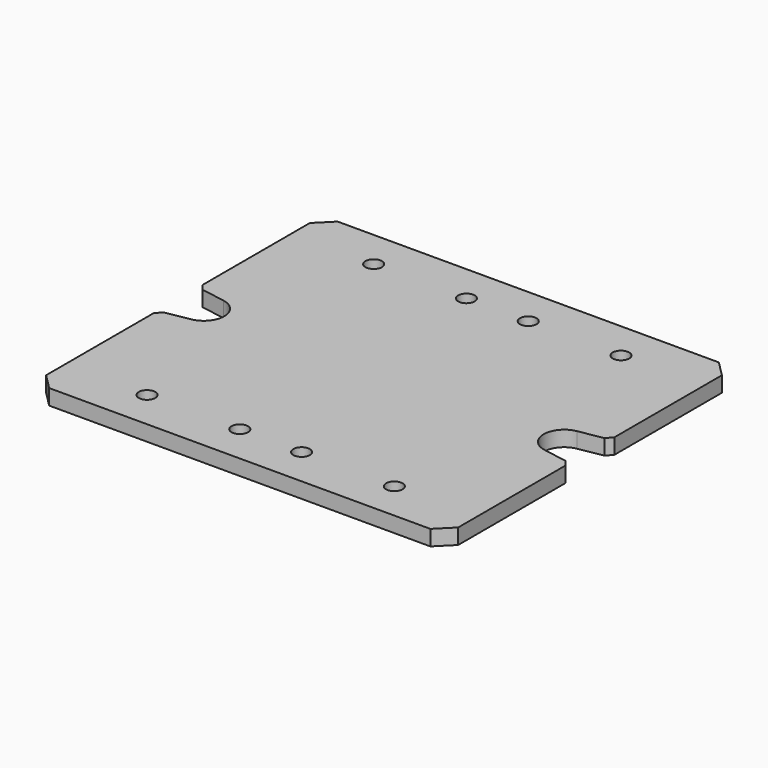
from build123d import *

# Parameters (mm, degrees)
SKETCH241_W     = 80
SKETCH241_H     = 70
PAD125_DEPTH    = 3
SKETCH242_R     = 1.6
POCKET081_DEPTH = 5
CHAMFER085_SIZE = 3
CHAMFER086_SIZE = 1


with BuildPart() as part:
    # Sketch241 → Pad125 (new body)
    with BuildSketch(Plane.XY):
        Rectangle(SKETCH241_W, SKETCH241_H)
    extrude(amount=PAD125_DEPTH)

    # Sketch242 → Pocket081 (cut)
    with BuildSketch(Plane.XY):
        with Locations((24, 27.5)):
            Circle(SKETCH242_R)
        with Locations((6, 27.5)):
            Circle(SKETCH242_R)
        with Locations((6, -27.5)):
            Circle(SKETCH242_R)
        with Locations((24, -27.5)):
            Circle(SKETCH242_R)
        with BuildLine():
            ThreePointArc((34.316718, 3.941209), (31, 0), (34.316718, -3.941209))
            Line((34.316718, -3.941209), (40, -4.926511))
            ThreePointArc((40, -4.926511), (45.854102, 0), (40, 4.926511))
            Line((40, 4.926511), (34.316718, 3.941209))
        make_face()
    pocket081 = extrude(amount=POCKET081_DEPTH, mode=Mode.SUBTRACT)

    # Mirrored016: Pocket081 across YZ
    add(pocket081.mirror(Plane.YZ), mode=Mode.SUBTRACT)

    # Chamfer085
    chamfer085_edges = [part.edges().sort_by_distance(p)[0] for p in [
        (-40, -35, 1.5),
        (40, -35, 1.5),
        (-40, 35, 1.5),
        (40, 35, 1.5),
    ]]
    chamfer(chamfer085_edges, length=CHAMFER085_SIZE)

    # Chamfer086
    chamfer086_edges = [part.edges().sort_by_distance(p)[0] for p in [
        (40, -4.926511, 1.5),
        (40, 4.926511, 1.5),
        (-40, 4.926511, 1.5),
        (-40, -4.926511, 1.5),
    ]]
    chamfer(chamfer086_edges, length=CHAMFER086_SIZE)


solid = part.part
